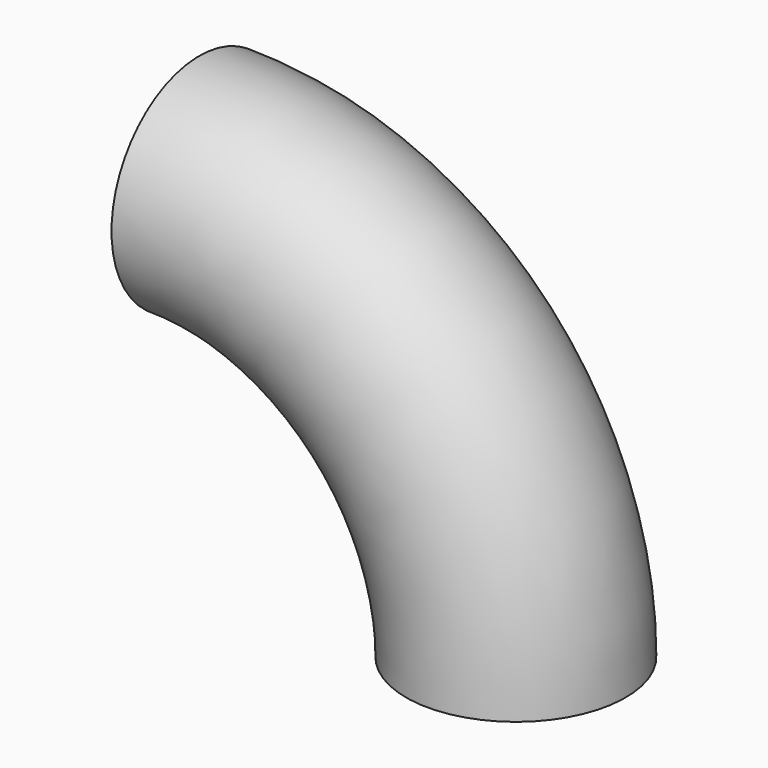
from build123d import *

# Parameters (mm, degrees)
F0_R   = 52
F0_R_2 = 50


with BuildPart() as f2:
    # F2: sweep along a path in F1
    with BuildLine(Plane.XZ) as f2_path:
        ThreePointArc((150, -150), (106.066017, -43.933983), (0, 0))
    # F0 (on Right) → F2 (sweep)
    with BuildSketch(Plane.YZ):
        Circle(F0_R)
        Circle(F0_R_2, mode=Mode.SUBTRACT)
    sweep(path=f2_path.line)


solid = f2.part
